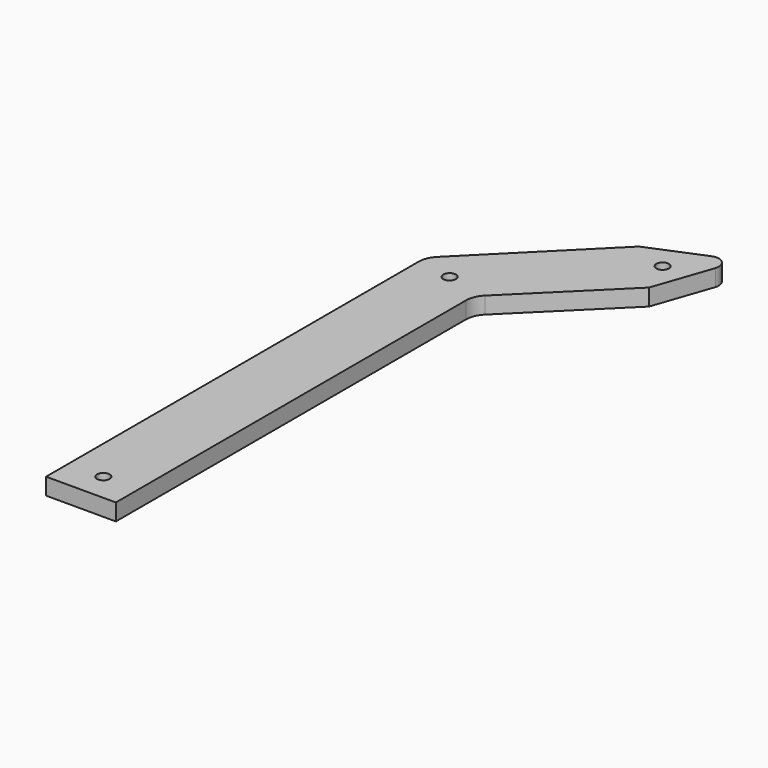
from build123d import *

# Parameters (mm, degrees)
PAD_DEPTH    = 6
FILLET_R     = 8
FILLET001_R  = 8
FILLET002_R  = 4
SKETCH001_R  = 2.25
POCKET_DEPTH = 6


with BuildPart() as part:
    # Sketch → Pad (new body)
    with BuildSketch(Plane.XY):
        Polygon((0, 0), (25, 0), (25, 150), (25, 160), (60.104086, 194.748733), (70.142801, 223.906901), (42.426414, 212.4264), (0, 170), (0, 150), align=None)
    extrude(amount=PAD_DEPTH)

    # Fillet
    fillet_edges = [part.edges().sort_by_distance(p)[0] for p in [
        (0, 170, 3),
    ]]
    fillet(fillet_edges, radius=FILLET_R)

    # Fillet001
    fillet001_edges = [part.edges().sort_by_distance(p)[0] for p in [
        (25, 160, 3),
    ]]
    fillet(fillet001_edges, radius=FILLET001_R)

    # Fillet002
    fillet002_edges = [part.edges().sort_by_distance(p)[0] for p in [
        (70.142801, 223.906901, 3),
    ]]
    fillet(fillet002_edges, radius=FILLET002_R)

    # Sketch001 (on Face12 of Fillet002) → Pocket (cut)
    with BuildSketch(Plane.XY.offset(6)):
        with Locations((12.5, 165)):
            Circle(SKETCH001_R)
        with Locations((55, 207.25)):
            Circle(SKETCH001_R)
        with Locations((12.5, 10)):
            Circle(SKETCH001_R)
    extrude(amount=-POCKET_DEPTH, mode=Mode.SUBTRACT)


solid = part.part
